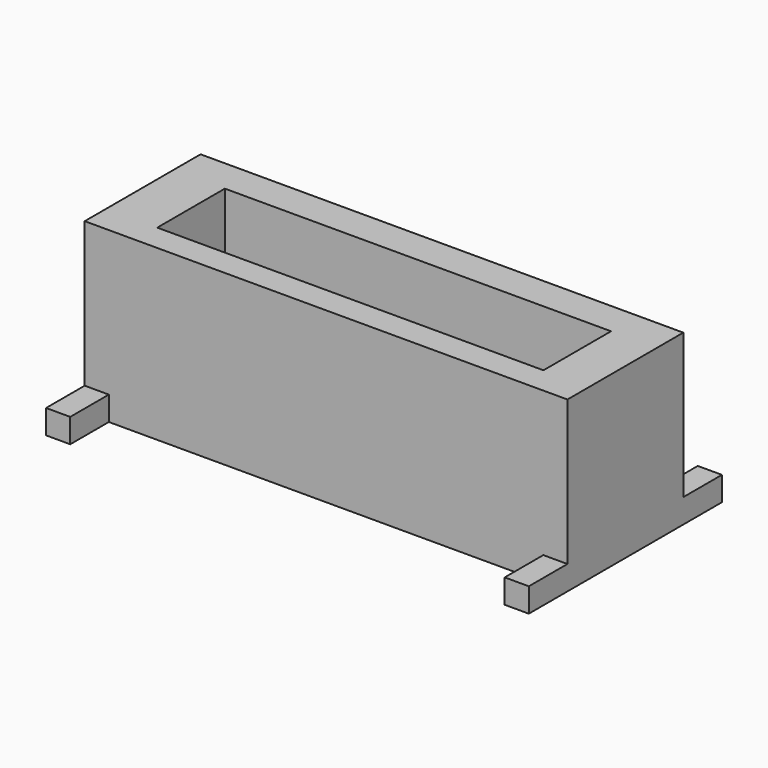
from build123d import *

# Parameters (mm, degrees)
BOX001_W     = 1
BOX001_H     = 10
BOX001_DEPTH = 1
BOX002_W     = 1
BOX002_H     = 10
BOX002_DEPTH = 1
BOX_W        = 20
BOX_H        = 6
BOX_DEPTH    = 7
SKETCH_W     = 16
SKETCH_H     = 3.5
POCKET_DEPTH = 9


with BuildPart() as cube001:
    # Box001 → Box001 (new body)
    with BuildSketch(Plane(origin=(0, -2, 0), x_dir=(1, 0, 0), z_dir=(0, 0, 1))):
        with Locations((0.5, 5)):
            Rectangle(BOX001_W, BOX001_H)
    extrude(amount=BOX001_DEPTH)


with BuildPart() as cube002:
    # Box002 → Box002 (new body)
    with BuildSketch(Plane(origin=(19, -2, 0), x_dir=(1, 0, 0), z_dir=(0, 0, 1))):
        with Locations((0.5, 5)):
            Rectangle(BOX002_W, BOX002_H)
    extrude(amount=BOX002_DEPTH)


with BuildPart() as fusion:
    # Box → Box (new body)
    with BuildSketch(Plane.XY):
        with Locations((10, 3)):
            Rectangle(BOX_W, BOX_H)
    extrude(amount=BOX_DEPTH)

    # Sketch (on Face6 of BaseFeature) → Pocket (cut)
    with BuildSketch(Plane.XY.offset(7)):
        with Locations((10.11532, 2.863184)):
            Rectangle(SKETCH_W, SKETCH_H)
    extrude(amount=-POCKET_DEPTH, mode=Mode.SUBTRACT)

    # Fusion: union Cube001, Cube002
    add(cube001.part)
    add(cube002.part)


solid = fusion.part
